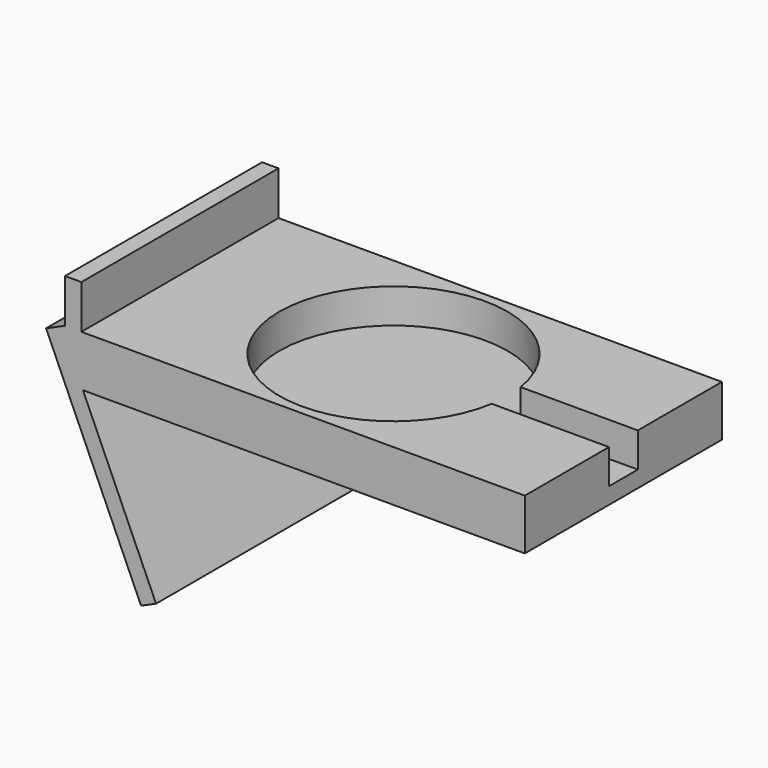
from build123d import *

# Parameters (mm, degrees)
F1_DEPTH      = 10.5
F2_W          = 140
F2_H          = 75
F3_DEPTH      = 5
F5_DEPTH      = 37.5
F5_DEPTH_BACK = 37.5
F6_DEPTH      = 10.5
F7_W          = 5
F7_H          = 75
F8_DEPTH      = 13.33


with BuildPart() as f1:
    # F0 (on Top) → F1 (new body)
    with BuildSketch(Plane.XY):
        with BuildLine():
            Line((-70, -37.5), (70, -37.5))
            Line((70, -37.5), (70, -5.5))
            Line((70, -5.5), (34.311988, -5.5))
            ThreePointArc((34.311988, -5.5), (-34.75, 0), (34.311988, 5.5))
            Line((34.311988, 5.5), (70, 5.5))
            Line((70, 5.5), (70, 37.5))
            Line((70, 37.5), (-70, 37.5))
            Line((-70, 37.5), (-70, -37.5))
        make_face()
    extrude(amount=F1_DEPTH)

    # F2 (on Top) → F3 (join)
    with BuildSketch(Plane.XY):
        Rectangle(F2_W, F2_H)
    extrude(amount=-F3_DEPTH)

    # F4 (on Front) → F5 (join, two sides)
    with BuildSketch(Plane.XZ) as f5_sk:
        Polygon((70, 10.5), (-70, 10.5), (-70, -5), (-65.432164, -2.96656), (-64.526948, -5), (70, -5), align=None)
        Polygon((-70, -5), (-70, 10.5), (-75.75882, 7.936376), align=None)
        Polygon((-64.526948, -5), (-70, -5), (-46.844684, -57.015147), (-42.276849, -54.981707), align=None)
    extrude(amount=F5_DEPTH)
    extrude(f5_sk.sketch, amount=-F5_DEPTH_BACK)

    # F0 (on Top) → F6 (cut, through all)
    with BuildSketch(Plane.XY):
        with BuildLine():
            Line((34.311988, -5.5), (70, -5.5))
            Line((70, -5.5), (70, 5.5))
            Line((70, 5.5), (34.311988, 5.5))
            ThreePointArc((34.311988, 5.5), (-34.75, 0), (34.311988, -5.5))
        make_face()
    extrude(amount=F6_DEPTH, mode=Mode.SUBTRACT)

    # F7 (on face) → F8 (join)
    with BuildSketch(Plane.XY.offset(10.5)):
        with Locations((-67.5, 0)):
            Rectangle(F7_W, F7_H)
    extrude(amount=F8_DEPTH)


solid = f1.part
